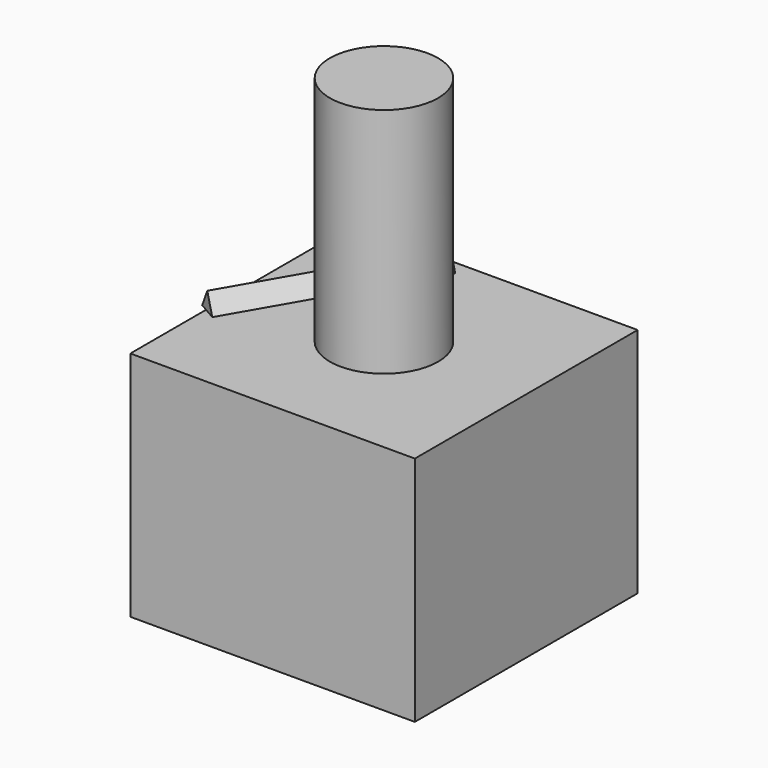
from build123d import *

# Parameters (mm, degrees)
F0_W     = 78.83364
F0_H     = 77.174082
F1_DEPTH = 64.244159
F2_R     = 15
F3_DEPTH = 64.316727
F6_DEPTH = 56.440815


with BuildPart() as f1:
    # F0 (on Top) → F1 (new body)
    with BuildSketch(Plane.XY):
        Rectangle(F0_W, F0_H)
        Rectangle(F0_W, F0_H)
    extrude(amount=F1_DEPTH)

    # F2 (on face) → F3 (join)
    with BuildSketch(Plane.XY.offset(64.244159)):
        Circle(F2_R)
    extrude(amount=F3_DEPTH)


with BuildPart() as f6:
    # F5 (on face) → F6 (new body)
    with BuildSketch(Plane(origin=(-15.227205, -26.374293, 0), x_dir=(0.866025, -0.5, 0), z_dir=(-0.5, -0.866025, 0))):
        Polygon((-27.13016, 69.290325), (-30.148327, 64.295124), (-24.156339, 64.295124), align=None)
    extrude(amount=-F6_DEPTH)


solid = Compound([f1.part, f6.part])
